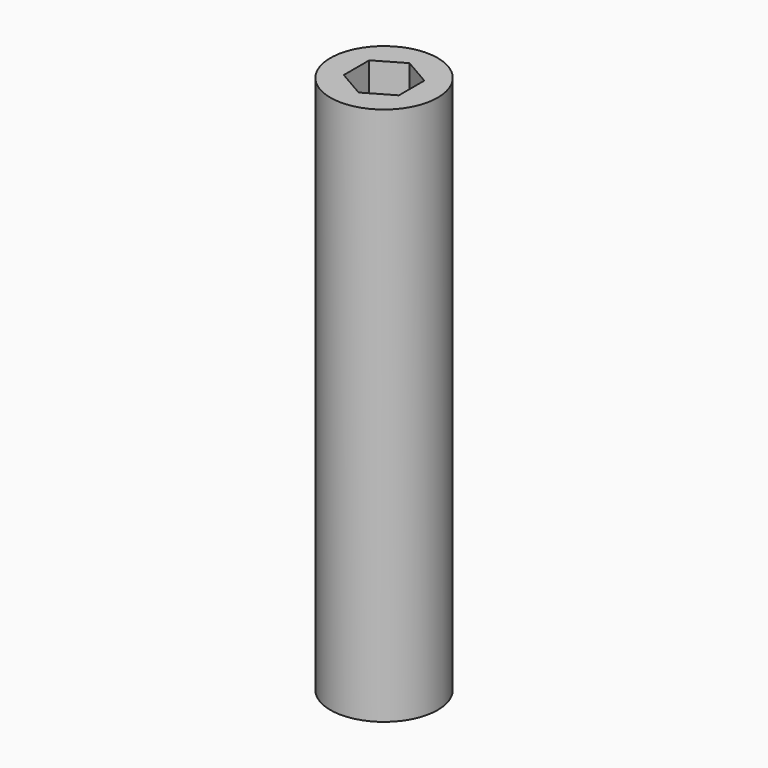
from build123d import *

# Parameters (mm, degrees)
F0_R     = 9.96
F1_DEPTH = 100
F2_R     = 3.25
F3_DEPTH = 25
F5_DEPTH = 6.5


with BuildPart() as f1:
    # F0 (on Top) → F1 (new body)
    with BuildSketch(Plane.XY):
        Circle(F0_R)
    extrude(amount=F1_DEPTH)

    # F2 (on face) → F3 (cut)
    with BuildSketch(Plane.XY.offset(100)):
        Circle(F2_R)
    extrude(amount=-F3_DEPTH, mode=Mode.SUBTRACT)

    # F4 (on face) → F5 (cut)
    with BuildSketch(Plane.XY.offset(100)):
        Polygon((5.10955, 2.95), (0, 5.9), (-5.10955, 2.95), (-5.10955, -2.95), (0, -5.9), (5.10955, -2.95), align=None)
    extrude(amount=-F5_DEPTH, mode=Mode.SUBTRACT)


solid = f1.part
